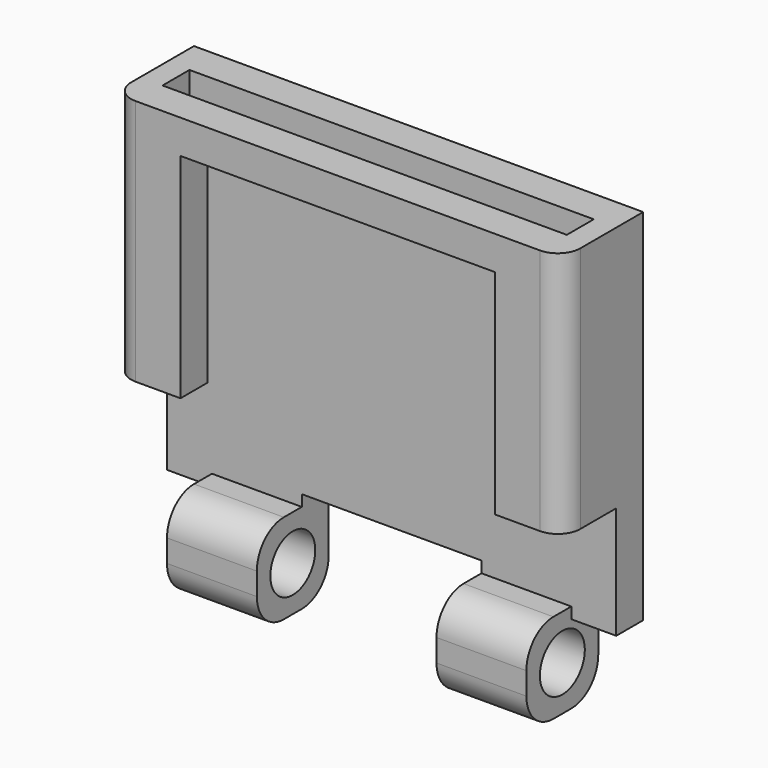
from build123d import *

# Parameters (mm, degrees)
F0_W          = 10
F0_H          = 16
F1_DEPTH      = 1.5
F2_W          = 4
F2_H          = 4
F3_DEPTH      = 2.5
F3_DEPTH_BACK = 1.5
F4_R          = 1.5
F5_R          = 1.25
F6_DEPTH      = 8.001
F8_DEPTH      = 3
F10_R         = 1
F9_W          = 9
F9_H          = 1.5
F11_DEPTH     = 11.001
F12_W         = 4
F12_H         = 1
F13_DEPTH     = 1.5


with BuildPart() as f1:
    # F0 (on Front) → F1 (new body)
    with BuildSketch(Plane.XZ):
        with Locations((-5, 8)):
            Rectangle(F0_W, F0_H)
    extrude(amount=F1_DEPTH)

    # F2 (on face) → F3 (join, two sides)
    with BuildSketch(Plane.XZ.offset(1.5)) as f3_sk:
        with Locations((-6, -1.5)):
            Rectangle(F2_W, F2_H)
    extrude(amount=F3_DEPTH)
    extrude(f3_sk.sketch, amount=-F3_DEPTH_BACK)

    # F4
    f4_edges = [f1.edges().sort_by_distance(p)[0] for p in [
        (-6, 0, -3.5),
        (-6, -4, -3.5),
        (-6, -4, 0.5),
    ]]
    fillet(f4_edges, radius=F4_R)

    # F5 (on face) → F6 (cut, through all)
    with BuildSketch(Plane(origin=(-8, 0, 0), x_dir=(0, -1, 0), z_dir=(-1, 0, 0))):
        with Locations((2, -1.5)):
            Circle(F5_R)
    extrude(amount=-F6_DEPTH, mode=Mode.SUBTRACT)

    # F7 (on face) → F8 (join)
    with BuildSketch(Plane.XZ.offset(1.5)):
        Polygon((-10, 16), (-10, 5), (-7, 5), (-7, 14.5), (0, 14.5), (0, 16), align=None)
    extrude(amount=F8_DEPTH)

    # F10
    f10_edges = [f1.edges().sort_by_distance(p)[0] for p in [
        (-10, -4.5, 10.5),
    ]]
    fillet(f10_edges, radius=F10_R)

    # F9 (on face) → F11 (cut, through all)
    with BuildSketch(Plane.XY.offset(16)):
        with Locations((-4.5, -2.25)):
            Rectangle(F9_W, F9_H)
    extrude(amount=-F11_DEPTH, mode=Mode.SUBTRACT)

    # F12 (on face) → F13 (cut)
    with BuildSketch(Plane.XZ.offset(1.5)):
        with Locations((-2, 0.5)):
            Rectangle(F12_W, F12_H)
    extrude(amount=-F13_DEPTH, mode=Mode.SUBTRACT)

    # F14: F1 across plane


with BuildPart() as f1_1:
    add(f1.part)
    add(f1.part.mirror(Plane.YZ))


solid = f1_1.part
